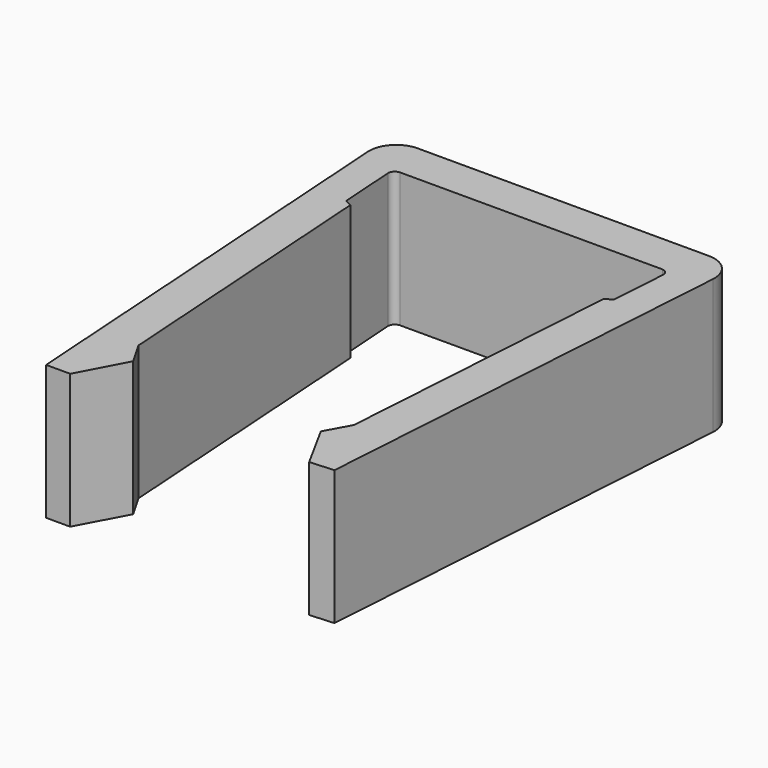
from build123d import *

# Parameters (mm, degrees)
F1_DEPTH = 10


with BuildPart() as f1:
    # F0 (on Top) → F1 (new body)
    with BuildSketch(Plane.XY):
        with BuildLine():
            ThreePointArc((-10.218003, 18.066239), (-10.082748, 18.408666), (-9.75, 18.566239))
            Line((-9.75, 18.566239), (9.75, 18.566239))
            Line((9.75, 18.566239), (9.749928, 18.565147))
            ThreePointArc((9.749928, 18.565147), (10.093038, 18.395673), (10.215817, 18.03322))
            Line((10.215817, 18.03322), (9.937061, 13.821265))
            Line((9.937061, 13.821265), (9.419089, 13.566239))
            Line((9.419089, 13.566239), (8, -7.875915))
            Line((8, -7.875915), (7, -9.70099))
            Line((7, -9.70099), (8.880575, -13.133215))
            Line((8.880575, -13.133215), (10.666446, -13.015022))
            Line((10.666446, -13.015022), (12.814004, 19.434163))
            ThreePointArc((12.814004, 19.434163), (12.278533, 20.932959), (10.81837, 21.566239))
            Line((10.81837, 21.566239), (-10.81837, 21.566239))
            ThreePointArc((-10.81837, 21.566239), (-12.278533, 20.932959), (-12.814004, 19.434163))
            Line((-12.814004, 19.434163), (-10.658623, -13.133215))
            Line((-10.658623, -13.133215), (-8.866173, -13.133215))
            Line((-8.866173, -13.133215), (-7, -9.625915))
            Line((-7, -9.625915), (-8, -7.875915))
            Line((-8, -7.875915), (-9.419089, 13.566239))
            Line((-9.419089, 13.566239), (-9.937061, 13.821265))
            Line((-9.937061, 13.821265), (-10.218003, 18.066239))
        make_face()
    extrude(amount=F1_DEPTH)


solid = f1.part
